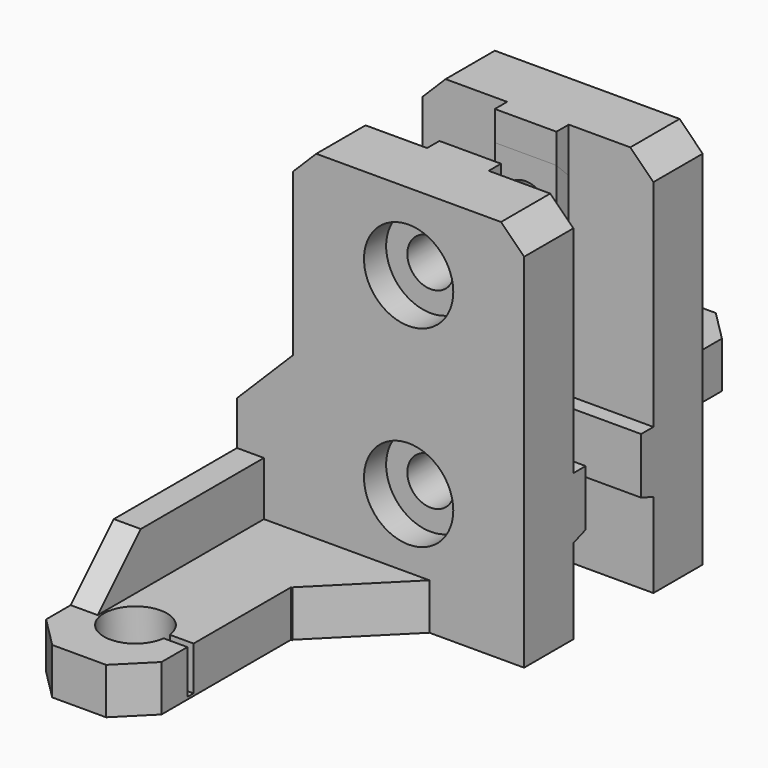
from build123d import *

# Parameters (mm, degrees)
CYLINDER006_R           = 5.8
CYLINDER006_DEPTH       = 10
CYLINDER007_R           = 3.05
CYLINDER007_DEPTH       = 10
CYLINDER008_R           = 3.05
CYLINDER008_DEPTH       = 10
CYLINDER009_R           = 4.1
CYLINDER009_DEPTH       = 20
CYLINDER005_R           = 5.8
CYLINDER005_DEPTH       = 10
CUBE026_W               = 10
CUBE026_H               = 10
CUBE026_DEPTH           = 20
CUBE026_PLACEMENT_ANGLE = 45
CUBE027_W               = 10
CUBE027_H               = 10
CUBE027_DEPTH           = 10
CUBE027_PLACEMENT_ANGLE = 45
CUBE028_W               = 10
CUBE028_H               = 10
CUBE028_DEPTH           = 10
CUBE028_PLACEMENT_ANGLE = 45
CUBE029_W               = 10
CUBE029_H               = 1
CUBE029_DEPTH           = 10
CUBE030_W               = 5
CUBE030_H               = 5
CUBE030_DEPTH           = 50
CUBE030_PLACEMENT_ANGLE = 45
CUBE031_W               = 10
CUBE031_H               = 10
CUBE031_DEPTH           = 10
CUBE031_PLACEMENT_ANGLE = 45
CUBE032_W               = 10
CUBE032_H               = 10
CUBE032_DEPTH           = 10
CUBE032_PLACEMENT_ANGLE = 45
CUBE033_W               = 10
CUBE033_H               = 14
CUBE033_DEPTH           = 10
CUBE033_PLACEMENT_ANGLE = 45
CUBE034_W               = 30
CUBE034_H               = 3
CUBE034_DEPTH           = 8
CUBE034_PLACEMENT_ANGLE = 160
CUBE035_W               = 30
CUBE035_H               = 3
CUBE035_DEPTH           = 8
CUBE035_PLACEMENT_ANGLE = 160
CUBE025_W               = 10
CUBE025_H               = 10
CUBE025_DEPTH           = 30
CUBE025_PLACEMENT_ANGLE = 225
CUBE019_W               = 15
CUBE019_H               = 43
CUBE019_DEPTH           = 6
CUBE020_W               = 3.5
CUBE020_H               = 35
CUBE020_DEPTH           = 13
CUBE021_W               = 10
CUBE021_H               = 10
CUBE021_DEPTH           = 6
CUBE022_W               = 30
CUBE022_H               = 8
CUBE022_DEPTH           = 26
CUBE023_W               = 8
CUBE023_H               = 3
CUBE023_DEPTH           = 19
CUBE024_W               = 30
CUBE024_H               = 3
CUBE024_DEPTH           = 8
CUBE018_W               = 30
CUBE018_H               = 8
CUBE018_DEPTH           = 50
CYLINDER001_R           = 5.8
CYLINDER001_DEPTH       = 10
CYLINDER002_R           = 3.05
CYLINDER002_DEPTH       = 10
CYLINDER003_R           = 3.05
CYLINDER003_DEPTH       = 10
CYLINDER004_R           = 4.1
CYLINDER004_DEPTH       = 20
CYLINDER_R              = 5.8
CYLINDER_DEPTH          = 10
CUBE008_W               = 10
CUBE008_H               = 10
CUBE008_DEPTH           = 20
CUBE008_PLACEMENT_ANGLE = 45
CUBE009_W               = 10
CUBE009_H               = 10
CUBE009_DEPTH           = 10
CUBE009_PLACEMENT_ANGLE = 45
CUBE010_W               = 10
CUBE010_H               = 10
CUBE010_DEPTH           = 10
CUBE010_PLACEMENT_ANGLE = 45
CUBE011_W               = 10
CUBE011_H               = 1
CUBE011_DEPTH           = 10
CUBE012_W               = 5
CUBE012_H               = 5
CUBE012_DEPTH           = 50
CUBE012_PLACEMENT_ANGLE = 45
CUBE013_W               = 10
CUBE013_H               = 10
CUBE013_DEPTH           = 10
CUBE013_PLACEMENT_ANGLE = 45
CUBE014_W               = 10
CUBE014_H               = 10
CUBE014_DEPTH           = 10
CUBE014_PLACEMENT_ANGLE = 45
CUBE015_W               = 10
CUBE015_H               = 14
CUBE015_DEPTH           = 10
CUBE015_PLACEMENT_ANGLE = 45
CUBE016_W               = 30
CUBE016_H               = 3
CUBE016_DEPTH           = 8
CUBE016_PLACEMENT_ANGLE = 160
CUBE017_W               = 30
CUBE017_H               = 3
CUBE017_DEPTH           = 8
CUBE017_PLACEMENT_ANGLE = 160
CUBE007_W               = 10
CUBE007_H               = 10
CUBE007_DEPTH           = 30
CUBE007_PLACEMENT_ANGLE = 225
CUBE001_W               = 15
CUBE001_H               = 43
CUBE001_DEPTH           = 6
CUBE002_W               = 3.5
CUBE002_H               = 35
CUBE002_DEPTH           = 13
CUBE003_W               = 10
CUBE003_H               = 10
CUBE003_DEPTH           = 6
CUBE004_W               = 30
CUBE004_H               = 8
CUBE004_DEPTH           = 26
CUBE005_W               = 8
CUBE005_H               = 3
CUBE005_DEPTH           = 19
CUBE006_W               = 30
CUBE006_H               = 3
CUBE006_DEPTH           = 8
CUBE_W                  = 30
CUBE_H                  = 8
CUBE_DEPTH              = 50
SKETCH_W                = 8.5
SKETCH_H                = 8
SKETCH_W_2              = 8
SKETCH_H_2              = 8.5
POCKET_DEPTH            = 2
CHAMFER_SIZE            = 1.9


with BuildPart() as cylinder006:
    # cylinder006 → cylinder006 (new body)
    with BuildSketch(Plane(origin=(22.3, 4.4, 40), x_dir=(1, 0, 0), z_dir=(0, 1, 0))):
        Circle(CYLINDER006_R)
    extrude(amount=CYLINDER006_DEPTH)


with BuildPart() as cylinder007:
    # cylinder007 → cylinder007 (new body)
    with BuildSketch(Plane(origin=(22.3, -3, 15), x_dir=(1, 0, 0), z_dir=(0, 1, 0))):
        Circle(CYLINDER007_R)
    extrude(amount=CYLINDER007_DEPTH)


with BuildPart() as cylinder008:
    # cylinder008 → cylinder008 (new body)
    with BuildSketch(Plane(origin=(22.3, -3, 40), x_dir=(1, 0, 0), z_dir=(0, 1, 0))):
        Circle(CYLINDER008_R)
    extrude(amount=CYLINDER008_DEPTH)


with BuildPart() as cylinder009:
    # cylinder009 → cylinder009 (new body)
    with BuildSketch(Plane(origin=(7.85, 34.3, -0.1), x_dir=(1, 0, 0), z_dir=(0, 0, 1))):
        Circle(CYLINDER009_R)
    extrude(amount=CYLINDER009_DEPTH)


with BuildPart() as group005:
    # cylinder005 → cylinder005 (new body)
    with BuildSketch(Plane(origin=(22.3, 4.4, 15), x_dir=(1, 0, 0), z_dir=(0, 1, 0))):
        Circle(CYLINDER005_R)
    extrude(amount=CYLINDER005_DEPTH)

    # Group005: union cylinder006, cylinder007, cylinder008, cylinder009
    add(cylinder006.part)
    add(cylinder007.part)
    add(cylinder008.part)
    add(cylinder009.part)


with BuildPart() as cube026:
    # cube026 → cube026 (new body)
    with BuildSketch(Plane.XY):
        with Locations((5, 5)):
            Rectangle(CUBE026_W, CUBE026_H)
    extrude(amount=CUBE026_DEPTH)


with BuildPart() as cube026_1:
    # cube026 placement: moved
    add(cube026.part.moved(Location((-0.1, 35, 6))).rotate(Axis((-0.1, 35, 6), (1, 0, 0)), CUBE026_PLACEMENT_ANGLE))


with BuildPart() as cube027:
    # cube027 → cube027 (new body)
    with BuildSketch(Plane.XY):
        with Locations((5, 5)):
            Rectangle(CUBE027_W, CUBE027_H)
    extrude(amount=CUBE027_DEPTH)


with BuildPart() as cube027_1:
    # cube027 placement: moved
    add(cube027.part.moved(Location((0, 39, -0.1))).rotate(Axis((0, 39, -0.1), (0, 0, 1)), CUBE027_PLACEMENT_ANGLE))


with BuildPart() as cube028:
    # cube028 → cube028 (new body)
    with BuildSketch(Plane.XY):
        with Locations((5, 5)):
            Rectangle(CUBE028_W, CUBE028_H)
    extrude(amount=CUBE028_DEPTH)


with BuildPart() as cube028_1:
    # cube028 placement: moved
    add(cube028.part.moved(Location((15, 39, -0.1))).rotate(Axis((15, 39, -0.1), (0, 0, 1)), CUBE028_PLACEMENT_ANGLE))


with BuildPart() as cube029:
    # cube029 → cube029 (new body)
    with BuildSketch(Plane(origin=(7.5, 33.8, 0.3), x_dir=(1, 0, 0), z_dir=(0, 0, 1))):
        with Locations((5, 0.5)):
            Rectangle(CUBE029_W, CUBE029_H)
    extrude(amount=CUBE029_DEPTH)


with BuildPart() as cube030:
    # cube030 → cube030 (new body)
    with BuildSketch(Plane.XY):
        with Locations((2.5, 2.5)):
            Rectangle(CUBE030_W, CUBE030_H)
    extrude(amount=CUBE030_DEPTH)


with BuildPart() as cube030_1:
    # cube030 placement: moved
    add(cube030.part.moved(Location((-1, -4, -0.1))).rotate(Axis((-1, -4, -0.1), (0, 0, 1)), CUBE030_PLACEMENT_ANGLE))


with BuildPart() as cube031:
    # cube031 → cube031 (new body)
    with BuildSketch(Plane.XY):
        with Locations((5, 5)):
            Rectangle(CUBE031_W, CUBE031_H)
    extrude(amount=CUBE031_DEPTH)


with BuildPart() as cube031_1:
    # cube031 placement: moved
    add(cube031.part.moved(Location((7.3, -0.1, 47))).rotate(Axis((7.3, -0.1, 47), (0, -1, 0)), CUBE031_PLACEMENT_ANGLE))


with BuildPart() as cube032:
    # cube032 → cube032 (new body)
    with BuildSketch(Plane.XY):
        with Locations((5, 5)):
            Rectangle(CUBE032_W, CUBE032_H)
    extrude(amount=CUBE032_DEPTH)


with BuildPart() as cube032_1:
    # cube032 placement: moved
    add(cube032.part.moved(Location((37.3, -0.1, 47))).rotate(Axis((37.3, -0.1, 47), (0, -1, 0)), CUBE032_PLACEMENT_ANGLE))


with BuildPart() as cube033:
    # cube033 → cube033 (new body)
    with BuildSketch(Plane.XY):
        with Locations((5, 7)):
            Rectangle(CUBE033_W, CUBE033_H)
    extrude(amount=CUBE033_DEPTH)


with BuildPart() as cube033_1:
    # cube033 placement: moved
    add(cube033.part.moved(Location((25, 8, -0.1))).rotate(Axis((25, 8, -0.1), (0, 0, 1)), CUBE033_PLACEMENT_ANGLE))


with BuildPart() as cube034:
    # cube034 → cube034 (new body)
    with BuildSketch(Plane.XY):
        with Locations((15, 1.5)):
            Rectangle(CUBE034_W, CUBE034_H)
    extrude(amount=CUBE034_DEPTH)


with BuildPart() as cube034_1:
    # cube034 placement: moved
    add(cube034.part.moved(Location((7.3, 0, 11))).rotate(Axis((7.3, 0, 11), (1, 0, 0)), CUBE034_PLACEMENT_ANGLE))


with BuildPart() as cube035:
    # cube035 → cube035 (new body)
    with BuildSketch(Plane.XY):
        with Locations((15, 1.5)):
            Rectangle(CUBE035_W, CUBE035_H)
    extrude(amount=CUBE035_DEPTH)


with BuildPart() as cube035_1:
    # cube035 placement: moved
    add(cube035.part.moved(Location((7.3, 0, 31))).rotate(Axis((7.3, 0, 31), (1, 0, 0)), CUBE035_PLACEMENT_ANGLE))


with BuildPart() as union001:
    # cube025 → cube025 (new body)
    with BuildSketch(Plane.XY):
        with Locations((5, 5)):
            Rectangle(CUBE025_W, CUBE025_H)
    extrude(amount=CUBE025_DEPTH)


with BuildPart() as union001_1:
    # cube025 placement: moved
    add(union001.part.moved(Location((7.3, -0.1, 26))).rotate(Axis((7.3, -0.1, 26), (0, 1, 0)), CUBE025_PLACEMENT_ANGLE))

    # Group004: union cube026, cube027, cube028, cube029, cube030, cube031, cube032, cube033, cube034, cube035
    add(cube026_1.part)
    add(cube027_1.part)
    add(cube028_1.part)
    add(cube029.part)
    add(cube030_1.part)
    add(cube031_1.part)
    add(cube032_1.part)
    add(cube033_1.part)
    add(cube034_1.part)
    add(cube035_1.part)

    # union001: union Group005
    add(group005.part)


with BuildPart() as cube019:
    # cube019 → cube019 (new body)
    with BuildSketch(Plane.XY):
        with Locations((7.5, 21.5)):
            Rectangle(CUBE019_W, CUBE019_H)
    extrude(amount=CUBE019_DEPTH)


with BuildPart() as cube020:
    # cube020 → cube020 (new body)
    with BuildSketch(Plane.XY):
        with Locations((1.75, 17.5)):
            Rectangle(CUBE020_W, CUBE020_H)
    extrude(amount=CUBE020_DEPTH)


with BuildPart() as cube021:
    # cube021 → cube021 (new body)
    with BuildSketch(Plane(origin=(15, 8, 0), x_dir=(1, 0, 0), z_dir=(0, 0, 1))):
        with Locations((5, 5)):
            Rectangle(CUBE021_W, CUBE021_H)
    extrude(amount=CUBE021_DEPTH)


with BuildPart() as cube022:
    # cube022 → cube022 (new body)
    with BuildSketch(Plane.XY):
        with Locations((15, 4)):
            Rectangle(CUBE022_W, CUBE022_H)
    extrude(amount=CUBE022_DEPTH)


with BuildPart() as cube023:
    # cube023 → cube023 (new body)
    with BuildSketch(Plane(origin=(18.3, -2, 31), x_dir=(1, 0, 0), z_dir=(0, 0, 1))):
        with Locations((4, 1.5)):
            Rectangle(CUBE023_W, CUBE023_H)
    extrude(amount=CUBE023_DEPTH)


with BuildPart() as cube024:
    # cube024 → cube024 (new body)
    with BuildSketch(Plane(origin=(7.3, -2, 11), x_dir=(1, 0, 0), z_dir=(0, 0, 1))):
        with Locations((15, 1.5)):
            Rectangle(CUBE024_W, CUBE024_H)
    extrude(amount=CUBE024_DEPTH)


with BuildPart() as difference001:
    # cube018 → cube018 (new body)
    with BuildSketch(Plane(origin=(7.3, 0, 0), x_dir=(1, 0, 0), z_dir=(0, 0, 1))):
        with Locations((15, 4)):
            Rectangle(CUBE018_W, CUBE018_H)
    extrude(amount=CUBE018_DEPTH)

    # Group003: union cube019, cube020, cube021, cube022, cube023, cube024
    add(cube019.part)
    add(cube020.part)
    add(cube021.part)
    add(cube022.part)
    add(cube023.part)
    add(cube024.part)

    # difference001: cut union001
    add(union001_1.part, mode=Mode.SUBTRACT)


with BuildPart() as mirrored_difference001:
    # mirr_difference001: instance of difference001
    add(difference001.part.mirror(Plane(origin=(0, 0, 0), x_dir=(1, 0, 0), z_dir=(0, 1, 0))))


with BuildPart() as mirrored_difference001_1:
    # mirr_difference001 placement: moved
    add(mirrored_difference001.part.moved(Location((0, -13, 0))))


with BuildPart() as cylinder001:
    # cylinder001 → cylinder001 (new body)
    with BuildSketch(Plane(origin=(22.3, 4.4, 40), x_dir=(1, 0, 0), z_dir=(0, 1, 0))):
        Circle(CYLINDER001_R)
    extrude(amount=CYLINDER001_DEPTH)


with BuildPart() as cylinder002:
    # cylinder002 → cylinder002 (new body)
    with BuildSketch(Plane(origin=(22.3, -3, 15), x_dir=(1, 0, 0), z_dir=(0, 1, 0))):
        Circle(CYLINDER002_R)
    extrude(amount=CYLINDER002_DEPTH)


with BuildPart() as cylinder003:
    # cylinder003 → cylinder003 (new body)
    with BuildSketch(Plane(origin=(22.3, -3, 40), x_dir=(1, 0, 0), z_dir=(0, 1, 0))):
        Circle(CYLINDER003_R)
    extrude(amount=CYLINDER003_DEPTH)


with BuildPart() as cylinder004:
    # cylinder004 → cylinder004 (new body)
    with BuildSketch(Plane(origin=(7.85, 34.3, -0.1), x_dir=(1, 0, 0), z_dir=(0, 0, 1))):
        Circle(CYLINDER004_R)
    extrude(amount=CYLINDER004_DEPTH)


with BuildPart() as group002:
    # cylinder → cylinder (new body)
    with BuildSketch(Plane(origin=(22.3, 4.4, 15), x_dir=(1, 0, 0), z_dir=(0, 1, 0))):
        Circle(CYLINDER_R)
    extrude(amount=CYLINDER_DEPTH)

    # Group002: union cylinder001, cylinder002, cylinder003, cylinder004
    add(cylinder001.part)
    add(cylinder002.part)
    add(cylinder003.part)
    add(cylinder004.part)


with BuildPart() as cube008:
    # cube008 → cube008 (new body)
    with BuildSketch(Plane.XY):
        with Locations((5, 5)):
            Rectangle(CUBE008_W, CUBE008_H)
    extrude(amount=CUBE008_DEPTH)


with BuildPart() as cube008_1:
    # cube008 placement: moved
    add(cube008.part.moved(Location((-0.1, 35, 6))).rotate(Axis((-0.1, 35, 6), (1, 0, 0)), CUBE008_PLACEMENT_ANGLE))


with BuildPart() as cube009:
    # cube009 → cube009 (new body)
    with BuildSketch(Plane.XY):
        with Locations((5, 5)):
            Rectangle(CUBE009_W, CUBE009_H)
    extrude(amount=CUBE009_DEPTH)


with BuildPart() as cube009_1:
    # cube009 placement: moved
    add(cube009.part.moved(Location((0, 39, -0.1))).rotate(Axis((0, 39, -0.1), (0, 0, 1)), CUBE009_PLACEMENT_ANGLE))


with BuildPart() as cube010:
    # cube010 → cube010 (new body)
    with BuildSketch(Plane.XY):
        with Locations((5, 5)):
            Rectangle(CUBE010_W, CUBE010_H)
    extrude(amount=CUBE010_DEPTH)


with BuildPart() as cube010_1:
    # cube010 placement: moved
    add(cube010.part.moved(Location((15, 39, -0.1))).rotate(Axis((15, 39, -0.1), (0, 0, 1)), CUBE010_PLACEMENT_ANGLE))


with BuildPart() as cube011:
    # cube011 → cube011 (new body)
    with BuildSketch(Plane(origin=(7.5, 33.8, 0.3), x_dir=(1, 0, 0), z_dir=(0, 0, 1))):
        with Locations((5, 0.5)):
            Rectangle(CUBE011_W, CUBE011_H)
    extrude(amount=CUBE011_DEPTH)


with BuildPart() as cube012:
    # cube012 → cube012 (new body)
    with BuildSketch(Plane.XY):
        with Locations((2.5, 2.5)):
            Rectangle(CUBE012_W, CUBE012_H)
    extrude(amount=CUBE012_DEPTH)


with BuildPart() as cube012_1:
    # cube012 placement: moved
    add(cube012.part.moved(Location((-1, -4, -0.1))).rotate(Axis((-1, -4, -0.1), (0, 0, 1)), CUBE012_PLACEMENT_ANGLE))


with BuildPart() as cube013:
    # cube013 → cube013 (new body)
    with BuildSketch(Plane.XY):
        with Locations((5, 5)):
            Rectangle(CUBE013_W, CUBE013_H)
    extrude(amount=CUBE013_DEPTH)


with BuildPart() as cube013_1:
    # cube013 placement: moved
    add(cube013.part.moved(Location((7.3, -0.1, 47))).rotate(Axis((7.3, -0.1, 47), (0, -1, 0)), CUBE013_PLACEMENT_ANGLE))


with BuildPart() as cube014:
    # cube014 → cube014 (new body)
    with BuildSketch(Plane.XY):
        with Locations((5, 5)):
            Rectangle(CUBE014_W, CUBE014_H)
    extrude(amount=CUBE014_DEPTH)


with BuildPart() as cube014_1:
    # cube014 placement: moved
    add(cube014.part.moved(Location((37.3, -0.1, 47))).rotate(Axis((37.3, -0.1, 47), (0, -1, 0)), CUBE014_PLACEMENT_ANGLE))


with BuildPart() as cube015:
    # cube015 → cube015 (new body)
    with BuildSketch(Plane.XY):
        with Locations((5, 7)):
            Rectangle(CUBE015_W, CUBE015_H)
    extrude(amount=CUBE015_DEPTH)


with BuildPart() as cube015_1:
    # cube015 placement: moved
    add(cube015.part.moved(Location((25, 8, -0.1))).rotate(Axis((25, 8, -0.1), (0, 0, 1)), CUBE015_PLACEMENT_ANGLE))


with BuildPart() as cube016:
    # cube016 → cube016 (new body)
    with BuildSketch(Plane.XY):
        with Locations((15, 1.5)):
            Rectangle(CUBE016_W, CUBE016_H)
    extrude(amount=CUBE016_DEPTH)


with BuildPart() as cube016_1:
    # cube016 placement: moved
    add(cube016.part.moved(Location((7.3, 0, 11))).rotate(Axis((7.3, 0, 11), (1, 0, 0)), CUBE016_PLACEMENT_ANGLE))


with BuildPart() as cube017:
    # cube017 → cube017 (new body)
    with BuildSketch(Plane.XY):
        with Locations((15, 1.5)):
            Rectangle(CUBE017_W, CUBE017_H)
    extrude(amount=CUBE017_DEPTH)


with BuildPart() as cube017_1:
    # cube017 placement: moved
    add(cube017.part.moved(Location((7.3, 0, 31))).rotate(Axis((7.3, 0, 31), (1, 0, 0)), CUBE017_PLACEMENT_ANGLE))


with BuildPart() as union:
    # cube007 → cube007 (new body)
    with BuildSketch(Plane.XY):
        with Locations((5, 5)):
            Rectangle(CUBE007_W, CUBE007_H)
    extrude(amount=CUBE007_DEPTH)


with BuildPart() as union_1:
    # cube007 placement: moved
    add(union.part.moved(Location((7.3, -0.1, 26))).rotate(Axis((7.3, -0.1, 26), (0, 1, 0)), CUBE007_PLACEMENT_ANGLE))

    # Group001: union cube008, cube009, cube010, cube011, cube012, cube013, cube014, cube015, cube016, cube017
    add(cube008_1.part)
    add(cube009_1.part)
    add(cube010_1.part)
    add(cube011.part)
    add(cube012_1.part)
    add(cube013_1.part)
    add(cube014_1.part)
    add(cube015_1.part)
    add(cube016_1.part)
    add(cube017_1.part)

    # union: union Group002
    add(group002.part)


with BuildPart() as cube001:
    # cube001 → cube001 (new body)
    with BuildSketch(Plane.XY):
        with Locations((7.5, 21.5)):
            Rectangle(CUBE001_W, CUBE001_H)
    extrude(amount=CUBE001_DEPTH)


with BuildPart() as cube002:
    # cube002 → cube002 (new body)
    with BuildSketch(Plane.XY):
        with Locations((1.75, 17.5)):
            Rectangle(CUBE002_W, CUBE002_H)
    extrude(amount=CUBE002_DEPTH)


with BuildPart() as cube003:
    # cube003 → cube003 (new body)
    with BuildSketch(Plane(origin=(15, 8, 0), x_dir=(1, 0, 0), z_dir=(0, 0, 1))):
        with Locations((5, 5)):
            Rectangle(CUBE003_W, CUBE003_H)
    extrude(amount=CUBE003_DEPTH)


with BuildPart() as cube004:
    # cube004 → cube004 (new body)
    with BuildSketch(Plane.XY):
        with Locations((15, 4)):
            Rectangle(CUBE004_W, CUBE004_H)
    extrude(amount=CUBE004_DEPTH)


with BuildPart() as cube005:
    # cube005 → cube005 (new body)
    with BuildSketch(Plane(origin=(18.3, -2, 31), x_dir=(1, 0, 0), z_dir=(0, 0, 1))):
        with Locations((4, 1.5)):
            Rectangle(CUBE005_W, CUBE005_H)
    extrude(amount=CUBE005_DEPTH)


with BuildPart() as cube006:
    # cube006 → cube006 (new body)
    with BuildSketch(Plane(origin=(7.3, -2, 11), x_dir=(1, 0, 0), z_dir=(0, 0, 1))):
        with Locations((15, 1.5)):
            Rectangle(CUBE006_W, CUBE006_H)
    extrude(amount=CUBE006_DEPTH)


with BuildPart() as difference:
    # cube → cube (new body)
    with BuildSketch(Plane(origin=(7.3, 0, 0), x_dir=(1, 0, 0), z_dir=(0, 0, 1))):
        with Locations((15, 4)):
            Rectangle(CUBE_W, CUBE_H)
    extrude(amount=CUBE_DEPTH)

    # Group: union cube001, cube002, cube003, cube004, cube005, cube006
    add(cube001.part)
    add(cube002.part)
    add(cube003.part)
    add(cube004.part)
    add(cube005.part)
    add(cube006.part)

    # difference: cut union
    add(union_1.part, mode=Mode.SUBTRACT)


with BuildPart() as group006:
    # Group006 base: copy of difference
    add(difference.part)

    # Group006: union mirrored difference001
    add(mirrored_difference001_1.part)


with BuildPart() as body:
    # Body base: copy of difference
    add(difference.part)

    # Sketch (on Face4 of BaseFeature) → Pocket (cut)
    with BuildSketch(Plane.XZ.offset(2)):
        with Locations((22.3, 15)):
            Rectangle(SKETCH_W, SKETCH_H)
        with Locations((22.3, 40)):
            Rectangle(SKETCH_W_2, SKETCH_H_2)
    extrude(amount=-POCKET_DEPTH, mode=Mode.SUBTRACT)

    # Chamfer
    chamfer_edges = [body.edges().sort_by_distance(p)[0] for p in [
        (22.3, -2, 44.25),
    ]]
    chamfer(chamfer_edges, length=CHAMFER_SIZE)


solid = Compound([group006.part, body.part])
